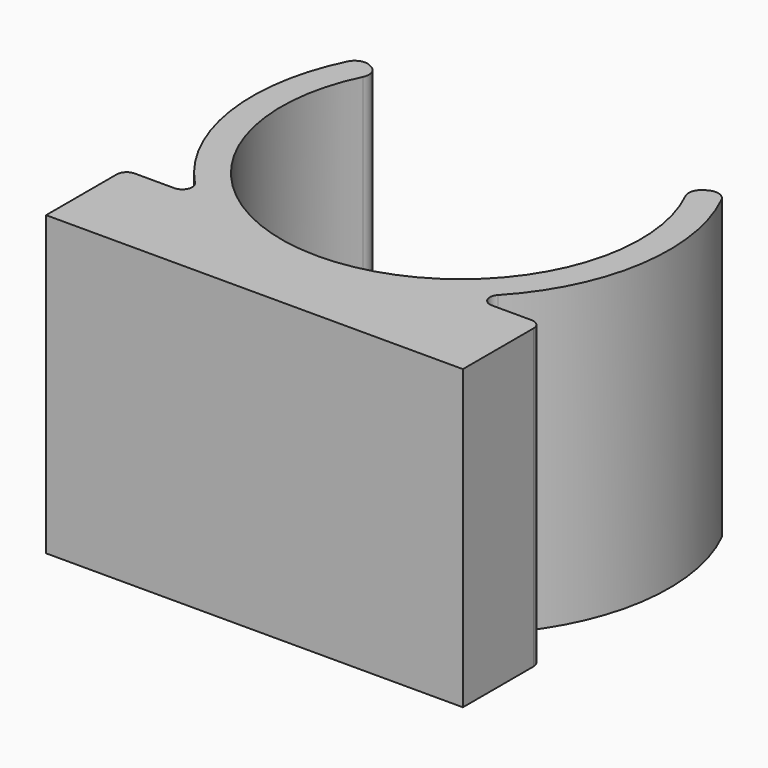
from build123d import *

# Parameters (mm, degrees)
PAD001_DEPTH = 30
FILLET_R     = 1.3
FILLET001_R  = 1


with BuildPart() as part:
    # Sketch001 → Pad001 (new body)
    with BuildSketch(Plane.XY):
        with BuildLine():
            ThreePointArc((-18.186533, 28.6), (-20.679194, 14.443373), (-13.482952, 2))
            Line((-21, 2), (-13.482952, 2))
            Line((-21, -7.9), (-21, 2))
            Line((21, -7.9), (-21, -7.9))
            Line((21, 2), (21, -7.9))
            Line((13.482952, 2), (21, 2))
            ThreePointArc((13.482952, 2), (20.679194, 14.443373), (18.186533, 28.6))
            Line((18.186533, 28.6), (15.67506, 27.15))
            ThreePointArc((-15.67506, 27.15), (0, 0), (15.67506, 27.15))
            Line((-18.186533, 28.6), (-15.67506, 27.15))
        make_face()
    extrude(amount=PAD001_DEPTH)

    # Fillet
    fillet_edges = [part.edges().sort_by_distance(p)[0] for p in [
        (-15.67506, 27.15, 15),
        (-18.186533, 28.6, 15),
        (15.67506, 27.15, 15),
        (18.186533, 28.6, 15),
    ]]
    fillet(fillet_edges, radius=FILLET_R)

    # Fillet001
    fillet001_edges = [part.edges().sort_by_distance(p)[0] for p in [
        (-13.482952, 2, 15),
        (13.482952, 2, 15),
        (21, 2, 15),
        (-21, 2, 15),
    ]]
    fillet(fillet001_edges, radius=FILLET001_R)


solid = part.part
